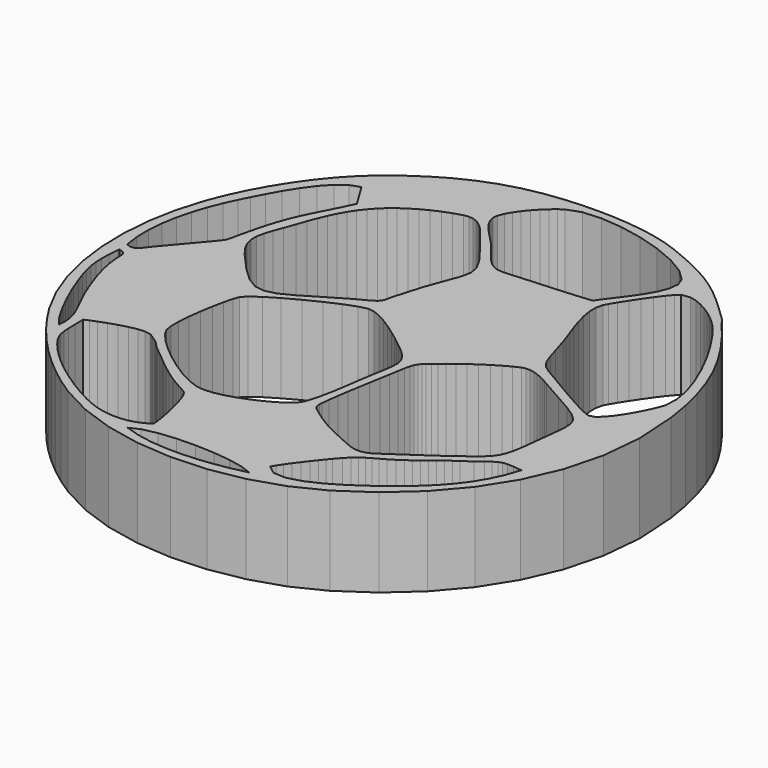
from build123d import *

# Parameters (mm, degrees)
F1_DEPTH = 19.05


with BuildPart() as f1:
    # F0 (on Top) → F1 (new body)
    with BuildSketch(Plane.XY):
        Polygon((-3.229762, 57.471183), (-6.430747, 57.279388), (-10.959541, 56.749391), (-15.205939, 55.900777), (-19.206947, 54.743096), (-22.999344, 53.285593), (-26.620038, 51.537591), (-30.105858, 49.508486), (-33.493761, 47.207678), (-36.820653, 44.644386), (-39.467358, 42.274998), (-42.03634, 39.555801), (-44.495441, 36.543285), (-46.812657, 33.29399), (-48.955858, 29.864101), (-50.893142, 26.30998), (-52.592351, 22.688296), (-54.021355, 19.055182), (-55.722545, 13.28928), (-56.820257, 7.323277), (-57.301943, 1.242593), (-57.155055, -4.8673), (-56.366639, -10.921111), (-54.924249, -16.833317), (-52.815261, -22.518421), (-50.026849, -27.891003), (-47.946056, -31.108599), (-45.66666, -34.205012), (-43.202352, -37.169319), (-40.566746, -39.990624), (-37.773458, -42.658005), (-34.836049, -45.160514), (-31.768263, -47.487307), (-28.58356, -49.627511), (-22.141155, -53.011705), (-15.141854, -55.460722), (-7.765644, -56.971514), (-0.192938, -57.541008), (7.39615, -57.166205), (14.821357, -55.843907), (21.902344, -53.571318), (28.459049, -50.345111), (35.295154, -45.683119), (41.41724, -40.231314), (46.710549, -34.03821), (51.06035, -27.152117), (54.351961, -19.621602), (56.470753, -11.4951), (57.301943, -2.821), (56.730951, 6.352083), (55.883759, 11.303178), (54.782161, 15.817088), (53.414752, 19.973493), (51.770255, 23.851895), (49.837137, 27.532), (47.603943, 31.093181), (45.059448, 34.615298), (42.192143, 38.177699), (41.759556, 38.725881), (41.426155, 39.181989), (41.259354, 39.400988), (41.07246, 39.62748), (40.850744, 39.871777), (40.57904, 40.143989), (37.985852, 42.616679), (35.66066, 44.75099), (33.452841, 46.619389), (31.211545, 48.294696), (28.78615, 49.84938), (26.025958, 51.356082), (22.780346, 52.887499), (18.898438, 54.516198), (16.039744, 55.508779), (13.015341, 56.285079), (9.864141, 56.860694), (6.625057, 57.251397), (3.337154, 57.472986), (0.039243, 57.540982), align=None)
        Polygon((-42.92125, -29.856811), (-42.94124, -27.609317), (-41.96875, -27.177416), (-40.590953, -26.62682), (-38.935152, -26.025399), (-37.128958, -25.441123), (-35.299447, -24.941911), (-33.574152, -24.595506), (-32.080556, -24.470004), (-30.94576, -24.633123), (-30.713248, -24.742318), (-30.399457, -24.922912), (-30.034941, -25.151715), (-29.65036, -25.405207), (-28.943351, -25.893217), (-28.523463, -26.2001), (-28.21465, -26.45951), (-27.96126, -26.699413), (-27.743963, -26.927023), (-27.54315, -27.149704), (-27.339442, -27.37452), (-27.113357, -27.608911), (-26.845539, -27.860117), (-26.516457, -28.135301), (-25.171959, -29.213404), (-24.135944, -30.067504), (-23.291343, -30.776901), (-22.521139, -31.420714), (-21.708339, -32.077812), (-20.735646, -32.827519), (-19.486143, -33.748701), (-17.842763, -34.920707), (-17.414748, -35.19551), (-16.810558, -35.55172), (-16.094761, -35.95911), (-15.332151, -36.38771), (-14.587144, -36.807623), (-13.924559, -37.188623), (-13.408863, -37.500814), (-13.104749, -37.714123), (-12.611862, -38.441808), (-12.097258, -39.698422), (-11.585854, -41.331413), (-11.102645, -43.187899), (-10.672343, -45.115302), (-10.320045, -46.960714), (-10.07044, -48.571404), (-9.948443, -49.79482), (-11.21984, -50.623013), (-12.627458, -51.233299), (-14.140663, -51.633806), (-15.728747, -51.832916), (-17.361052, -51.838809), (-19.006744, -51.659714), (-20.635341, -51.303911), (-22.216059, -50.779705), (-24.35225, -49.831015), (-26.672261, -48.603713), (-29.088156, -47.1583), (-31.512154, -45.55551), (-33.856244, -43.855615), (-36.032745, -42.11922), (-37.953645, -40.406904), (-39.531061, -38.779018), (-40.724861, -37.381002), (-41.596158, -36.227207), (-42.196563, -35.195815), (-42.577741, -34.164905), (-42.791151, -33.01271), (-42.888459, -31.61731), align=None, mode=Mode.SUBTRACT)
        Polygon((-44.895643, -29.840403), (-44.964858, -31.521705), (-45.77334, -30.654904), (-46.681847, -29.354221), (-47.64466, -27.741016), (-48.616438, -25.936804), (-49.551844, -24.063122), (-50.40536, -22.241205), (-51.131546, -20.592618), (-51.684961, -19.238824), (-52.581251, -16.882212), (-53.28445, -14.884502), (-53.808554, -13.132511), (-54.167354, -11.51321), (-54.374745, -9.913417), (-54.444646, -8.2201), (-54.39095, -6.320104), (-54.227552, -4.100322), (-54.210763, -4.005504), (-54.182848, -3.936924), (-54.147542, -3.880409), (-54.10896, -3.821608), (-53.503246, -3.982415), (-53.086457, -4.185818), (-52.822348, -4.444416), (-52.674545, -4.771009), (-52.606956, -5.1784), (-52.583055, -5.679313), (-52.566748, -6.286424), (-52.521739, -7.01261), (-52.351051, -8.41822), (-52.101547, -9.814814), (-51.784656, -11.200816), (-51.411251, -12.5746), (-50.992659, -13.934516), (-50.539955, -15.278913), (-50.06434, -16.606215), (-49.576863, -17.91462), (-48.654538, -20.161606), (-47.745447, -22.102115), (-46.892159, -23.811408), (-46.137754, -25.364618), (-45.524953, -26.837107), (-45.096659, -28.303906), align=None, mode=Mode.SUBTRACT)
        Polygon((-9.761753, 5.039182), (-7.899552, 5.499379), (-6.603441, 5.336692), (-5.006442, 4.706188), (-3.225952, 3.736696), (-1.379652, 2.557297), (0.415138, 1.296797), (2.040738, 0.084379), (3.379749, -0.951205), (4.314444, -1.681023), (6.162243, -3.196514), (7.399553, -4.4831), (8.118754, -5.694502), (8.411642, -6.984213), (8.370341, -8.505901), (8.087055, -10.413416), (7.653757, -12.860122), (7.162444, -15.999816), (7.015759, -17.0545), (6.865442, -18.111419), (6.708851, -19.169507), (6.542938, -20.228001), (6.364961, -21.286013), (6.172251, -22.3425), (5.961761, -23.3966), (5.73085, -24.4475), (5.421859, -25.725323), (5.130241, -26.743203), (4.821555, -27.555723), (4.461459, -28.217114), (4.015461, -28.781908), (3.449244, -29.304615), (2.728341, -29.839615), (1.818437, -30.441316), (0.483743, -31.228005), (-1.178357, -32.076923), (-3.075051, -32.920102), (-5.113858, -33.690001), (-7.201941, -34.318804), (-9.246946, -34.738716), (-11.156163, -34.882099), (-12.836855, -34.681109), (-15.000757, -33.879511), (-17.483658, -32.570623), (-20.117054, -30.891912), (-22.732441, -28.981222), (-25.16124, -26.975816), (-27.235048, -25.013412), (-28.785363, -23.2315), (-29.643553, -21.7678), (-29.907255, -20.257922), (-29.91546, -18.131307), (-29.720159, -15.607309), (-29.373347, -12.905308), (-28.926841, -10.244811), (-28.43276, -7.84512), (-27.943048, -5.925617), (-27.509546, -4.705807), (-26.518946, -3.667506), (-24.525453, -2.260524), (-21.82175, -0.635406), (-18.700648, 1.057478), (-15.455062, 2.667787), (-12.377852, 4.045179), align=None, mode=Mode.SUBTRACT)
        Polygon((-9.438462, -54.659606), (-12.451944, -53.722219), (-10.336352, -52.73581), (-7.264857, -52.062609), (-3.550539, -51.686409), (0.493649, -51.59121), (4.554957, -51.760806), (8.320354, -52.17922), (11.476761, -52.8304), (13.711453, -53.698115), (10.668559, -54.380105), (7.422159, -54.942816), (4.041648, -55.348911), (0.596062, -55.5609), (-2.845257, -55.541621), (-6.213246, -55.253611), align=None, mode=Mode.SUBTRACT)
        Polygon((17.039361, -51.217805), (15.137638, -49.79482), (15.675661, -48.865409), (16.404946, -47.763811), (17.267555, -46.552917), (18.205856, -45.295515), (19.162039, -44.054624), (20.078344, -42.893005), (20.896859, -41.873602), (21.559952, -41.059303), (22.720351, -39.726311), (23.756544, -38.699618), (24.718645, -37.901601), (25.656845, -37.254713), (26.621156, -36.681308), (27.661641, -36.103814), (28.828441, -35.444608), (30.171644, -34.626118), (31.335345, -33.849716), (32.461352, -33.041514), (33.557159, -32.214312), (34.630538, -31.380913), (35.688956, -30.554117), (36.739957, -29.746702), (37.791238, -28.971723), (38.85024, -28.241701), (40.812542, -26.882014), (42.20906, -25.829108), (43.224348, -25.055322), (44.04266, -24.533022), (44.848551, -24.234623), (45.82635, -24.132311), (47.160459, -24.198504), (49.03536, -24.405615), (47.981845, -27.487118), (46.659749, -30.289119), (45.114947, -32.834402), (43.39336, -35.14532), (41.54076, -37.244604), (39.602943, -39.154811), (37.626061, -40.89842), (35.655758, -42.498112), (34.23064, -43.601818), (31.964859, -45.263105), (29.115944, -47.176004), (25.94135, -49.034116), (22.698761, -50.531217), (19.645554, -51.361213), align=None, mode=Mode.SUBTRACT)
        Polygon((24.213261, 4.198696), (25.644246, 4.867377), (26.465454, 5.072888), (27.352142, 5.068595), (28.279039, 4.894301), (29.220744, 4.589882), (30.152061, 4.194988), (31.047538, 3.749396), (31.881851, 3.29278), (32.629551, 2.865095), (37.332361, 0.204089), (40.721458, -1.732001), (42.991659, -3.225114), (44.337859, -4.556811), (44.95485, -6.008802), (45.037756, -7.8629), (44.781241, -10.400817), (44.380252, -13.904214), (44.050458, -16.915308), (43.70164, -19.218123), (43.268849, -20.970113), (42.687138, -22.329013), (41.891737, -23.452303), (40.817444, -24.497716), (39.399439, -25.622707), (37.572848, -26.985011), (36.140644, -28.038603), (34.717761, -29.056508), (33.299959, -30.048302), (31.882639, -31.023509), (30.461458, -31.991706), (29.032048, -32.962317), (27.589937, -33.945119), (26.130758, -34.949409), (25.109145, -35.545217), (24.151641, -35.885806), (23.237241, -36.0061), (22.345447, -35.941203), (21.455355, -35.725913), (20.546162, -35.395408), (19.59704, -34.984512), (18.587441, -34.528303), (17.162551, -33.8868), (15.868853, -33.285913), (14.672437, -32.700214), (13.539546, -32.104101), (12.436246, -31.472099), (11.328654, -30.778907), (10.182962, -29.998822), (8.965362, -29.106419), (8.521344, -28.778302), (8.164754, -28.512414), (7.88924, -28.274416), (7.688047, -28.029611), (7.554951, -27.74381), (7.483246, -27.382318), (7.466559, -26.910817), (7.498258, -26.294715), (7.674356, -24.564315), (7.948447, -22.519411), (8.294446, -20.257821), (8.68614, -17.877104), (9.097442, -15.474899), (9.50214, -13.148818), (9.874148, -10.996524), (10.187254, -9.115704), (10.447655, -7.638313), (10.702849, -6.547612), (10.983341, -5.749417), (11.319942, -5.149621), (11.74336, -4.65422), (12.284253, -4.168902), (12.973456, -3.599917), (13.841552, -2.852801), (14.878152, -1.976501), (16.178149, -0.964921), (17.672456, 0.127076), (19.292138, 1.244498), (20.968259, 2.332279), (22.631654, 3.335299), align=None, mode=Mode.SUBTRACT)
        Polygon((-53.574747, -1.82151), (-54.293948, -1.549705), (-54.741039, 1.606296), (-54.802761, 4.830978), (-54.528542, 8.074177), (-53.968345, 11.285779), (-53.171852, 14.415694), (-52.188745, 17.413681), (-51.068757, 20.229601), (-49.861648, 22.813391), (-48.82736, 24.875896), (-47.559747, 27.326488), (-46.085557, 29.9736), (-44.431458, 32.625487), (-42.624248, 35.090278), (-40.690546, 37.176481), (-38.657251, 38.692379), (-36.550854, 39.4462), (-33.329245, 34.199297), (-34.718447, 31.306694), (-35.934447, 28.926079), (-37.013058, 26.842491), (-37.990247, 24.840692), (-38.901954, 22.705593), (-39.784045, 20.222083), (-40.672563, 17.175099), (-41.603244, 13.349376), (-41.865042, 12.143994), (-42.042842, 11.3014), (-42.182847, 10.719994), (-42.331259, 10.298379), (-42.534561, 9.935286), (-42.839056, 9.529191), (-43.290846, 8.978595), (-43.936463, 8.182077), (-50.463755, 0.444398), (-50.882855, -0.09972), (-51.267462, -0.624103), (-51.643153, -1.096721), (-52.035939, -1.485011), (-52.471549, -1.756816), (-52.975942, -1.879803), align=None, mode=Mode.SUBTRACT)
        Polygon((-18.567146, 41.58648), (-16.673246, 42.17129), (-15.647441, 42.318788), (-14.695957, 42.213098), (-13.818743, 41.901897), (-13.015951, 41.432988), (-12.287555, 40.8543), (-11.633759, 40.213686), (-11.054563, 39.558798), (-10.550042, 38.937489), (-6.74685, 34.156879), (-4.277741, 30.863997), (-2.962148, 28.509798), (-2.619045, 26.545591), (-3.067863, 24.422379), (-4.127551, 21.591397), (-5.61754, 17.503699), (-7.356958, 11.610391), (-7.520661, 10.925988), (-7.640549, 10.371201), (-7.747559, 9.919487), (-7.872451, 9.54438), (-8.04606, 9.219387), (-8.299247, 8.918092), (-8.662848, 8.6138), (-9.167647, 8.280197), (-9.558553, 8.049387), (-9.934143, 7.840599), (-10.301554, 7.645984), (-10.667746, 7.457694), (-11.039856, 7.26788), (-11.424945, 7.068795), (-11.830152, 6.852488), (-12.26246, 6.61129), (-16.949953, 3.837381), (-20.56445, 1.679092), (-23.404957, 0.247294), (-25.77084, -0.347599), (-27.961361, 0.005283), (-30.275657, 1.416482), (-33.012939, 3.996588), (-36.472444, 7.856398), (-37.869851, 9.689795), (-38.723951, 11.327384), (-39.110361, 12.856185), (-39.10424, 14.362989), (-38.780949, 15.934893), (-38.215951, 17.658791), (-37.484558, 19.621678), (-36.662055, 21.910599), (-35.93625, 23.980978), (-35.209556, 25.890398), (-34.459139, 27.6574), (-33.662645, 29.30078), (-32.79714, 30.839181), (-31.840246, 32.291198), (-30.769052, 33.675498), (-29.560952, 35.010801), (-28.390444, 36.107776), (-27.049146, 37.178082), (-25.559461, 38.206197), (-23.943843, 39.176477), (-22.224949, 40.07358), (-20.425258, 40.882087), align=None, mode=Mode.SUBTRACT)
        Polygon((29.256558, 41.676396), (30.043653, 42.391686), (31.944158, 42.632681), (33.337043, 42.28658), (34.767139, 41.703701), (36.196346, 40.933776), (37.586539, 40.026387), (38.899541, 39.031189), (40.097354, 37.99779), (41.141752, 36.975796), (41.994658, 36.014889), (43.832043, 33.552587), (45.853756, 30.452289), (47.905238, 26.908277), (49.831854, 23.114483), (51.479044, 19.26529), (52.692351, 15.554782), (53.317038, 12.17709), (53.198649, 9.326397), (52.837842, 8.206689), (52.157452, 6.622999), (51.230251, 4.769383), (50.128754, 2.839796), (48.925759, 1.027887), (47.694037, -0.472211), (46.506257, -1.466723), (45.435139, -1.761719), (44.494755, -1.454302), (43.016551, -0.758012), (41.178658, 0.21049), (39.159459, 1.334389), (37.137061, 2.496693), (35.289744, 3.580689), (33.795741, 4.469587), (32.833361, 5.046599), (31.015356, 6.111189), (29.690238, 6.905777), (28.73596, 7.617587), (28.030348, 8.434197), (27.451355, 9.542983), (26.876858, 11.131398), (26.18486, 13.386791), (25.253061, 16.49669), (24.74755, 17.99938), (24.094161, 19.796887), (23.383443, 21.790482), (22.706254, 23.881283), (22.153143, 25.970484), (21.814942, 27.95938), (21.782253, 29.748988), (22.145854, 31.240501), (22.625761, 32.138391), (23.45276, 33.5137), (24.525757, 35.19838), (25.743738, 37.024894), (27.005559, 38.825195), (28.210154, 40.431695), align=None, mode=Mode.SUBTRACT)
        Polygon((20.773644, 32.877887), (19.77075, 31.425998), (17.835347, 31.236793), (15.888259, 31.071287), (13.93284, 30.924297), (11.972442, 30.790388), (10.010445, 30.663998), (8.050047, 30.539893), (6.094755, 30.41269), (4.147642, 30.276876), (2.905049, 30.1863), (1.865351, 30.12948), (0.985749, 30.131995), (0.223749, 30.219193), (-0.463448, 30.416297), (-1.118438, 30.748783), (-1.783842, 31.242), (-2.502256, 31.921196), (-2.946349, 32.402399), (-3.393745, 32.928789), (-3.842461, 33.487385), (-4.290746, 34.065185), (-4.736846, 34.64908), (-5.178857, 35.226092), (-5.614949, 35.78319), (-6.043346, 36.307395), (-7.131558, 37.521591), (-8.284439, 38.720192), (-9.422663, 39.904594), (-10.466959, 41.076296), (-11.338154, 42.237), (-11.95705, 43.388178), (-12.244248, 44.53128), (-12.120651, 45.667879), (-11.633556, 46.855482), (-10.922152, 48.102901), (-10.034956, 49.36838), (-9.020658, 50.609881), (-7.928051, 51.785698), (-6.805651, 52.853895), (-5.702249, 53.772587), (-4.666463, 54.499993), (-1.757553, 55.524298), (2.160854, 55.796586), (6.72785, 55.409287), (11.582349, 54.454679), (16.363239, 53.025192), (20.70956, 51.212979), (24.260251, 49.110392), (26.654252, 46.809787), (27.294357, 45.095185), (27.117751, 43.12699), (26.318337, 41.002077), (25.090247, 38.817677), (23.627359, 36.670793), (22.123857, 34.658478), align=None, mode=Mode.SUBTRACT)
    extrude(amount=F1_DEPTH)


solid = f1.part
